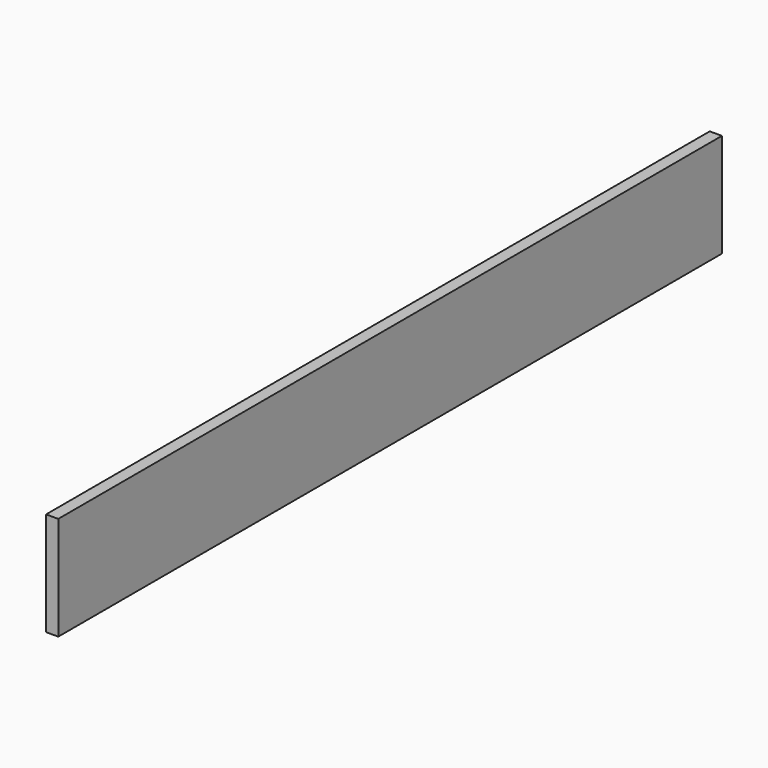
from build123d import *

# Parameters (mm, degrees)
F0_W     = 1360
F0_H     = 170
F1_DEPTH = 20
F2_ANGLE = 90
F3_ANGLE = 90


with BuildPart() as f1:
    # F0 (on Top) → F1 (new body)
    with BuildSketch(Plane.XY):
        with Locations((611.2681257427, 128.9208378189)):
            Rectangle(F0_W, F0_H)
    extrude(amount=F1_DEPTH)


with BuildPart() as f1_1:
    # F2: moved
    add(f1.part.rotate(Axis((-68.7318742573, 43.9208378189, 10), (0, 0, -1)), F2_ANGLE))


with BuildPart() as f1_2:
    # F3: moved
    add(f1_1.part.rotate(Axis((-68.7318742573, -636.0791621811, 20), (0, -1, 0)), F3_ANGLE))


solid = f1_2.part
